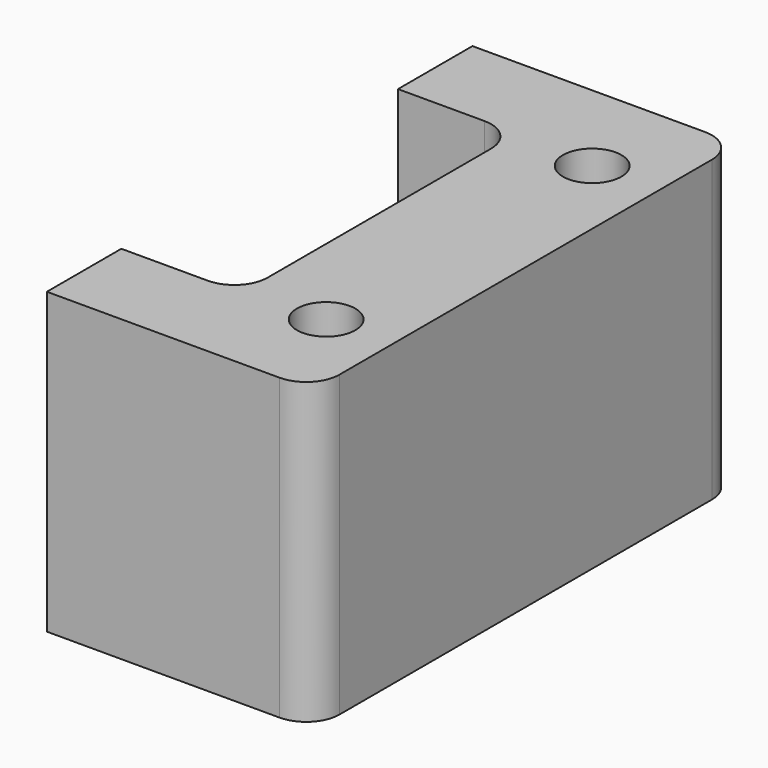
from build123d import *

# Parameters (mm, degrees)
F0_W     = 40
F0_H     = 80
F1_DEPTH = 45
F3_D     = 8.8
F4_W     = 18
F4_H     = 52
F5_DEPTH = 45
F6_R     = 5


with BuildPart() as f1:
    # F0 (on Top) → F1 (new body)
    with BuildSketch(Plane.XY):
        with Locations((20, 40)):
            Rectangle(F0_W, F0_H)
    extrude(amount=F1_DEPTH)

    # F3 (through all)
    with Locations(Plane.XY.offset(45)):
        with Locations((30, 65), (30, 15)):
            Hole(F3_D / 2)

    # F4 (on face) → F5 (cut, through all)
    with BuildSketch(Plane.XY.offset(45)):
        with Locations((9, 40)):
            Rectangle(F4_W, F4_H)
    extrude(amount=-F5_DEPTH, mode=Mode.SUBTRACT)

    # F6
    f6_edges = [f1.edges().sort_by_distance(p)[0] for p in [
        (40, 0, 22.5),
        (40, 80, 22.5),
        (18, 14, 22.5),
        (18, 66, 22.5),
    ]]
    fillet(f6_edges, radius=F6_R)


solid = f1.part
